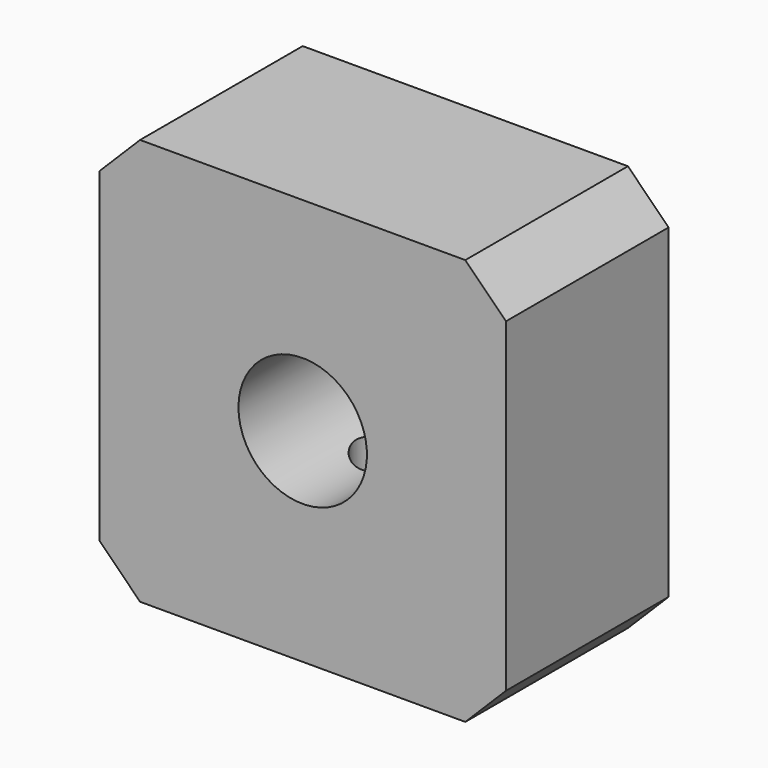
from build123d import *

# Parameters (mm, degrees)
F0_W     = 25.4
F0_H     = 25.4
F1_DEPTH = 6.35
F3_D     = 8.0264
F5_D     = 3.4544
F5_DEPTH = 15.08125
F5_TIP   = 1.0378064612
F6_SIZE  = 2.54


with BuildPart() as f1:
    # F0 (on Front) → F1 (new body, symmetric)
    with BuildSketch(Plane.XZ):
        with Locations((0, -12.7)):
            Rectangle(F0_W, F0_H)
    extrude(amount=F1_DEPTH, both=True)

    # F3 (through all)
    with Locations(Plane.XZ.offset(6.35)):
        with Locations((0, -12.7)):
            Hole(F3_D / 2)

    # F5
    with Locations(Plane(origin=(0, 0, -25.4), x_dir=(1, 0, 0), z_dir=(0, 0, -1))):
        with Locations((0, 0)):
            Hole(F5_D / 2, depth=F5_DEPTH)
            with Locations((0, 0, -(F5_DEPTH + F5_TIP / 2))):  # 118° drill point
                Cone(0, F5_D / 2, F5_TIP, mode=Mode.SUBTRACT)

    # F6
    f6_edges = [f1.edges().sort_by_distance(p)[0] for p in [
        (12.7, 0, -25.4),
        (-12.7, 0, -25.4),
        (-12.7, 0, 0),
        (12.7, 0, 0),
    ]]
    chamfer(f6_edges, length=F6_SIZE)


solid = f1.part
